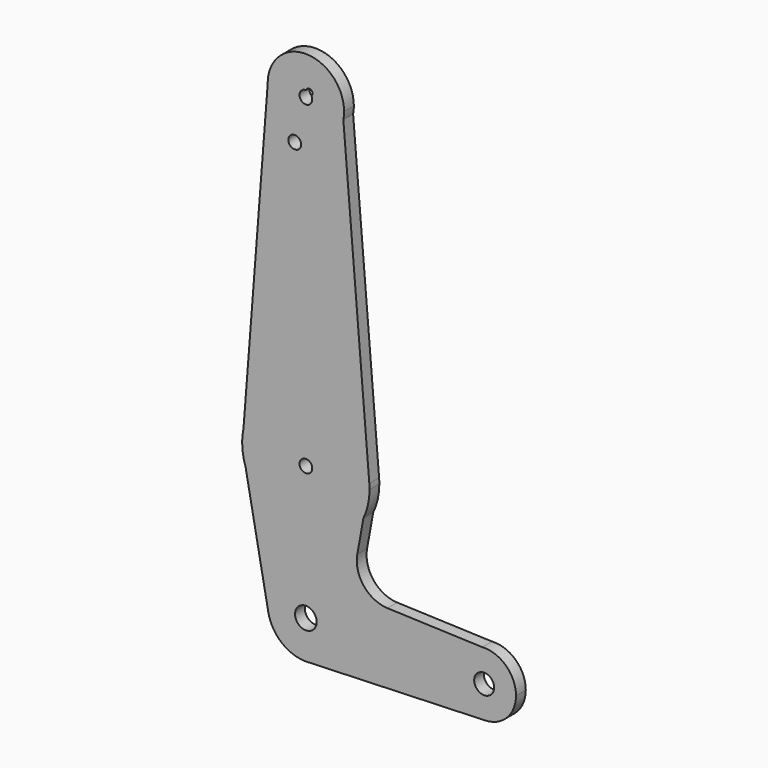
from build123d import *

# Parameters (mm, degrees)
F0_R     = 1.5875
F0_R_2   = 2.6977983167
F0_R_3   = 2.4861607305
F1_DEPTH = 3.048


with BuildPart() as f1:
    # F0 (on Front) → F1 (new body)
    with BuildSketch(Plane.XZ):
        with BuildLine():
            ThreePointArc((9.337811097, 112.4209287089), (9.4780872463, 113.3558140275), (9.525, 114.3))
            ThreePointArc((9.525, 114.3), (-0.1180723957, 123.8242681561), (-9.5220727369, 114.0638733525))
            ThreePointArc((-9.5220727369, 114.0638733525), (-7.454632628, 108.3709126013), (-2.3729772002, 105.075326336))
            ThreePointArc((-2.3729772002, 105.075326336), (5.061293941, 106.230989612), (9.337811097, 112.4209287089))
        make_face()
        with BuildLine():
            ThreePointArc((1.391966463, 115.0632729629), (1.5378398828, 114.6939603343), (1.5875, 114.3))
            ThreePointArc((1.5875, 114.3), (-1.1340247845, 113.1890796437), (0.0326728655, 115.8871637388))
            ThreePointArc((0.0326728655, 115.8871637388), (0.9388020367, 116.4722433705), (1.6457196684, 115.6575927015))
            ThreePointArc((1.6457196684, 115.6575927015), (1.5796270682, 115.3344802439), (1.391966463, 115.0632729629))
        make_face(mode=Mode.SUBTRACT)
        with BuildLine():
            ThreePointArc((-2.3729772002, 105.075326336), (-7.454632628, 108.3709126013), (-9.5220727369, 114.0638733525))
            Line((-9.5220727369, 114.0638733525), (-15.5513365967, 36.557569567))
            ThreePointArc((-15.5513365967, 36.557569567), (0.9446226359, 49.2151527861), (15.8200881864, 34.6875374068))
            Line((15.8200881864, 34.6875374068), (9.337811097, 112.4209287089))
            ThreePointArc((9.337811097, 112.4209287089), (5.061293941, 106.230989612), (-2.3729772002, 105.075326336))
        make_face()
        with BuildLine():
            ThreePointArc((-1.1809732023, 103.5378806744), (-4.0230659955, 102.5651766222), (-2.3729772002, 105.075326336))
            ThreePointArc((-2.3729772002, 105.075326336), (-1.5138804092, 104.5105847267), (-1.1809732023, 103.5378806744))
        make_face(mode=Mode.SUBTRACT)
        with BuildLine():
            Line((-15.8574633151, 32.6223046679), (-15.5513365967, 36.557569567))
            ThreePointArc((-15.5513365967, 36.557569567), (-15.8271840651, 34.5994885701), (-15.8574633151, 32.6223046679))
        make_face()
        with BuildLine():
            ThreePointArc((15.8200881864, 34.6875374068), (0.9446226359, 49.2151527861), (-15.5513365967, 36.557569567))
            Line((-15.5513365967, 36.557569567), (-15.8574633151, 32.6223046679))
            Line((-15.8574633151, 32.6223046679), (-15.036410072, 28.2769170609))
            ThreePointArc((-15.036410072, 28.2769170609), (-0.9183743023, 17.51986842), (14.3476785343, 26.574185636))
            Line((14.3476785343, 26.574185636), (15.8200881864, 34.6875374068))
        make_face()
        with Locations((0, 33.3682820201)):
            Circle(F0_R, mode=Mode.SUBTRACT)
        with BuildLine():
            ThreePointArc((15.875, 33.3682820201), (15.8612661058, 34.0284808694), (15.8200881864, 34.6875374068))
            Line((15.8200881864, 34.6875374068), (14.3476785343, 26.574185636))
            ThreePointArc((14.3476785343, 26.574185636), (15.4884637994, 29.8864557559), (15.875, 33.3682820201))
        make_face()
        with BuildLine():
            Line((-15.036410072, 28.2769170609), (-15.8574633151, 32.6223046679))
            ThreePointArc((-15.8574633151, 32.6223046679), (-15.5989887999, 30.4208808899), (-15.036410072, 28.2769170609))
        make_face()
        with BuildLine():
            Line((12.8190899402, 18.1512736022), (14.3476785343, 26.574185636))
            ThreePointArc((14.3476785343, 26.574185636), (-0.9183743023, 17.51986842), (-15.036410072, 28.2769170609))
            Line((-15.036410072, 28.2769170609), (-9.3593932799, -1.7684406781))
            ThreePointArc((-9.3593932799, -1.7684406781), (-0.888088962, 9.4835079478), (9.525, 0))
            ThreePointArc((9.525, 0), (6.9705567315, -6.4912990883), (0.6773435479, -9.500885786))
            Line((0.6773435479, -9.500885786), (44.7324052746, -7.9324746146))
            ThreePointArc((44.7324052746, -7.9324746146), (36.52175331, -0.383158809), (43.9661495004, 7.9227391061))
            Line((43.9661495004, 7.9227391061), (20.3508303618, 8.7867768118))
            ThreePointArc((20.3508303618, 8.7867768118), (14.4464302695, 11.7490340198), (12.8190899402, 18.1512736022))
        make_face()
        with BuildLine():
            ThreePointArc((9.525, 0), (-0.888088962, 9.4835079478), (-9.3593932799, -1.7684406781))
            ThreePointArc((-9.3593932799, -1.7684406781), (-6.077879052, -7.3338265066), (0, -9.525))
            Line((0, -9.525), (0.6773435479, -9.500885786))
            ThreePointArc((0.6773435479, -9.500885786), (6.9705567315, -6.4912990883), (9.525, 0))
        make_face()
        Circle(F0_R_2, mode=Mode.SUBTRACT)
        with BuildLine():
            Line((0.6773435479, -9.500885786), (0, -9.525))
            ThreePointArc((0, -9.525), (0.3388863295, -9.5189695375), (0.6773435479, -9.500885786))
        make_face()
        with BuildLine():
            ThreePointArc((52.3875, 0), (49.8889035158, 5.7811966577), (43.9661495004, 7.9227391061))
            ThreePointArc((43.9661495004, 7.9227391061), (36.52175331, -0.383158809), (44.7324052746, -7.9324746146))
            ThreePointArc((44.7324052746, -7.9324746146), (50.1616327839, -5.5119104847), (52.3875, 0))
        make_face()
        with Locations((44.45, 0)):
            Circle(F0_R_3, mode=Mode.SUBTRACT)
    extrude(amount=F1_DEPTH)


solid = f1.part
